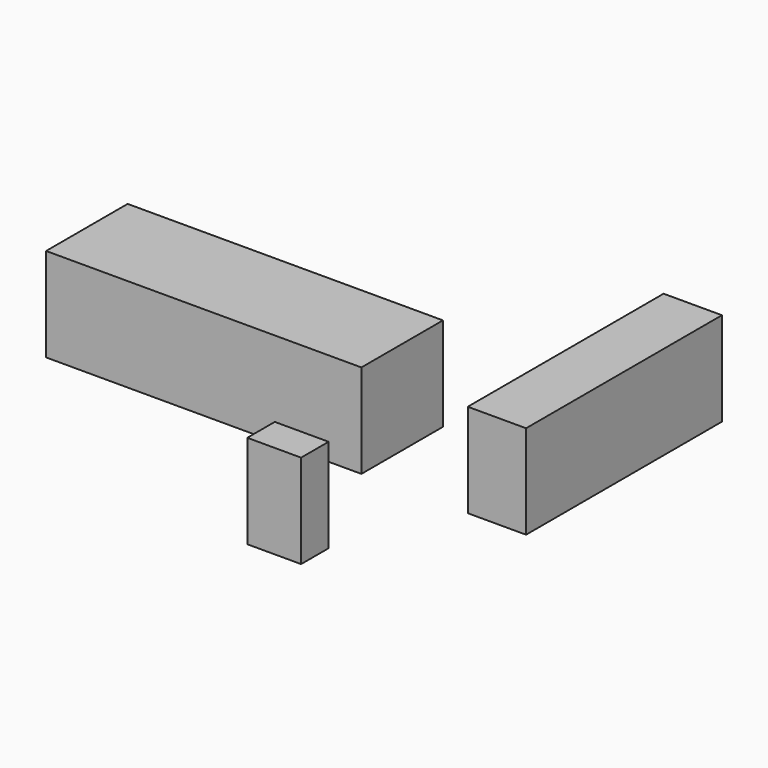
from build123d import *

# Parameters (mm, degrees)
F0_W     = 82.715519
F0_H     = 26.742202
F0_W_2   = 15.296205
F0_H_2   = 64.221618
F0_W_3   = 14.118094
F0_H_3   = 9.020753
F1_DEPTH = 24.588093


with BuildPart() as f1:
    # F0 (on Top) → F1 (new body)
    with BuildSketch(Plane.XY):
        with Locations((-2.42209, 28.172919)):
            Rectangle(F0_W, F0_H)
        with Locations((74.481755, 46.912627)):
            Rectangle(F0_W_2, F0_H_2)
        with Locations((47.229594, -19.65503)):
            Rectangle(F0_W_3, F0_H_3)
    extrude(amount=F1_DEPTH)


solid = f1.part
